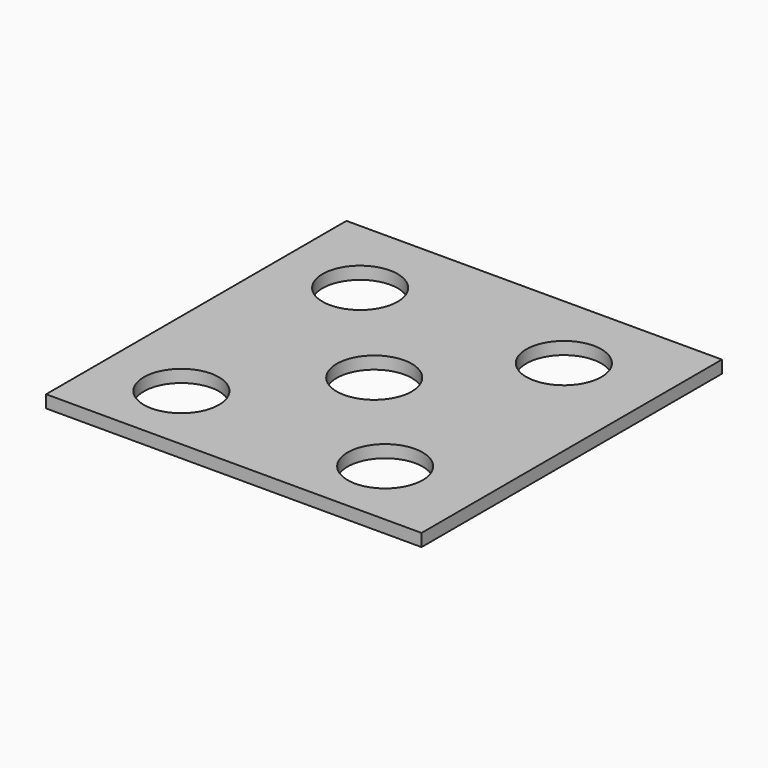
from build123d import *

# Parameters (mm, degrees)
F0_W     = 30
F0_H     = 30
F0_R     = 3
F1_DEPTH = 1


with BuildPart() as f1:
    # F0 (on Top) → F1 (new body)
    with BuildSketch(Plane.XY):
        with Locations((15, 15)):
            Rectangle(F0_W, F0_H)
        with Locations((6.319383, 5.614225)):
            Circle(F0_R, mode=Mode.SUBTRACT)
        with Locations((14.58829, 14.540225)):
            Circle(F0_R, mode=Mode.SUBTRACT)
        with Locations((22.599667, 5.614225)):
            Circle(F0_R, mode=Mode.SUBTRACT)
        with Locations((6.319383, 23.466225)):
            Circle(F0_R, mode=Mode.SUBTRACT)
        with Locations((22.599667, 23.466225)):
            Circle(F0_R, mode=Mode.SUBTRACT)
    extrude(amount=F1_DEPTH)


solid = f1.part
